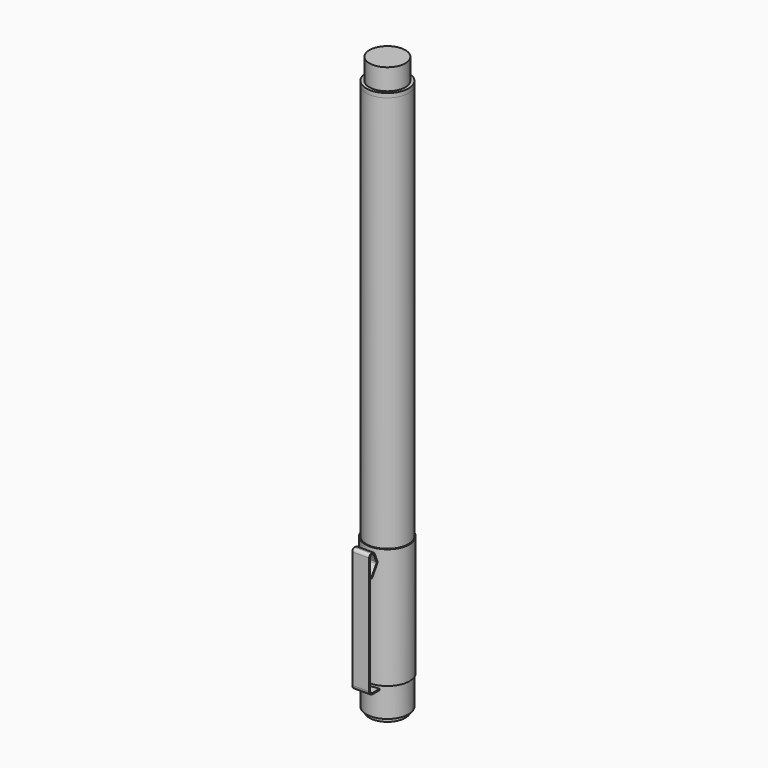
from build123d import *

# Parameters (mm, degrees)
F0_R      = 5
F1_DEPTH  = 94
F2_R      = 5
F3_DEPTH  = 1
F4_R      = 4.125
F5_DEPTH  = 18
F6_R      = 2.4
F7_DEPTH  = 5.4
F10_R     = 4.25
F11_DEPTH = 5
F14_R     = 5.25
F14_R_2   = 4.125
F15_DEPTH = 28.5
F16_R     = 4.25
F17_DEPTH = 8
F18_R     = 5
F18_R_2   = 4.25
F19_DEPTH = 7
F21_DEPTH = 2


with BuildPart() as f1:
    # F0 (on Top) → F1 (new body)
    with BuildSketch(Plane.XY):
        Circle(F0_R)
    extrude(amount=F1_DEPTH)

    # F4 (on face) → F5 (join)
    with BuildSketch(Plane(origin=(0, 0, 0), x_dir=(1, 0, 0), z_dir=(0, 0, -1))):
        Circle(F4_R)
    extrude(amount=F5_DEPTH)

    # F6 (on face) → F7 (join)
    with BuildSketch(Plane(origin=(0, 0, -18), x_dir=(1, 0, 0), z_dir=(0, 0, -1))):
        Circle(F6_R)
    extrude(amount=F7_DEPTH)


with BuildPart() as f3:
    # F2 (on face) → F3 (new body)
    with BuildSketch(Plane.XY.offset(94)):
        Circle(F2_R)
    extrude(amount=F3_DEPTH)

    # F10 (on face) → F11 (join)
    with BuildSketch(Plane.XY.offset(95)):
        Circle(F10_R)
    extrude(amount=F11_DEPTH)


with BuildPart() as f9:
    # F8 (on Front) → F9 (revolve)
    with BuildSketch(Plane.XZ):
        Polygon((2.4, -24.15), (2.4, -23.4), (0, -23.4), (0, -28.9), (0.9, -28.9), (0.9, -24.9), align=None)
    revolve(axis=Axis((0, 0, -26.15), (0, 0, -1)))


with BuildPart() as f13:
    # F12 (on Front) → F13 (revolve)
    with BuildSketch(Plane.XZ):
        Polygon((0.6, -28.9), (0, -28.9), (0, -30.5), (0.6, -30.3116552532), align=None)
    revolve(axis=Axis((0, 0, -29.7), (0, 0, 1)))


with BuildPart() as f15:
    # F14 (on face) → F15 (new body)
    with BuildSketch(Plane(origin=(0, 0, 0), x_dir=(1, 0, 0), z_dir=(0, 0, -1))):
        Circle(F14_R)
        Circle(F14_R_2, mode=Mode.SUBTRACT)
    extrude(amount=F15_DEPTH)

    # F16 (on face) → F17 (join)
    with BuildSketch(Plane(origin=(0, 0, -28.5), x_dir=(1, 0, 0), z_dir=(0, 0, -1))):
        Circle(F16_R)
    extrude(amount=F17_DEPTH)


with BuildPart() as f19:
    # F18 (on face) → F19 (new body)
    with BuildSketch(Plane(origin=(0, 0, -28.5), x_dir=(1, 0, 0), z_dir=(0, 0, -1))):
        Circle(F18_R)
        Circle(F18_R_2, mode=Mode.SUBTRACT)
    extrude(amount=F19_DEPTH)

    # F20 (on Right) → F21 (join, symmetric)
    with BuildSketch(Plane.YZ):
        with BuildLine():
            Line((-7.3335008867, -5.1305089463), (-7.0807887241, -5.2921772003))
            Line((-7.0807887241, -5.2921772003), (-5.5439237256, -2.8898225776))
            ThreePointArc((-5.5439237256, -2.8898225776), (-5.4359020791, -2.5695020632), (-5.4905885572, -2.2359105506))
            Line((-5.4905885572, -2.2359105506), (-6.2705623658, -0.4233137702))
            ThreePointArc((-6.2705623658, -0.4233137702), (-6.5286437049, -0.1153289981), (-6.9135590456, 0))
            Line((-6.9135590456, 0), (-7.2, 0))
            ThreePointArc((-7.2, 0), (-7.6949747468, -0.2050252532), (-7.9, -0.7))
            Line((-7.9, -0.7), (-7.9, -28.5))
            ThreePointArc((-7.9, -28.5), (-7.6071067812, -29.2071067812), (-6.9, -29.5))
            Line((-6.9, -29.5), (-4.7933913732, -29.5))
            Line((-4.7933913732, -29.5), (-4.7933913732, -29.1999998975))
            Line((-4.7933913732, -29.1999998975), (-6.9, -29.1999998975))
            ThreePointArc((-6.9, -29.1999998975), (-7.3949746744, -28.9949746744), (-7.5999998975, -28.5))
            Line((-7.5999998975, -28.5), (-7.5999998975, -0.7))
            ThreePointArc((-7.5999998975, -0.7), (-7.48284264, -0.41715736), (-7.2, -0.3000001025))
            Line((-7.2, -0.3000001025), (-6.9135590456, -0.3000001025))
            ThreePointArc((-6.9135590456, -0.3000001025), (-6.6936074787, -0.3659023702), (-6.5461324656, -0.5418936235))
            Line((-6.5461324656, -0.5418936235), (-5.7661586569, -2.3544904039))
            ThreePointArc((-5.7661586569, -2.3544904039), (-5.7349092489, -2.5451140765), (-5.7966358882, -2.7281543236))
            Line((-5.7966358882, -2.7281543236), (-7.3335008867, -5.1305089463))
        make_face()
    extrude(amount=F21_DEPTH, both=True)


solid = Compound([f1.part, f3.part, f9.part, f13.part, f15.part, f19.part])
